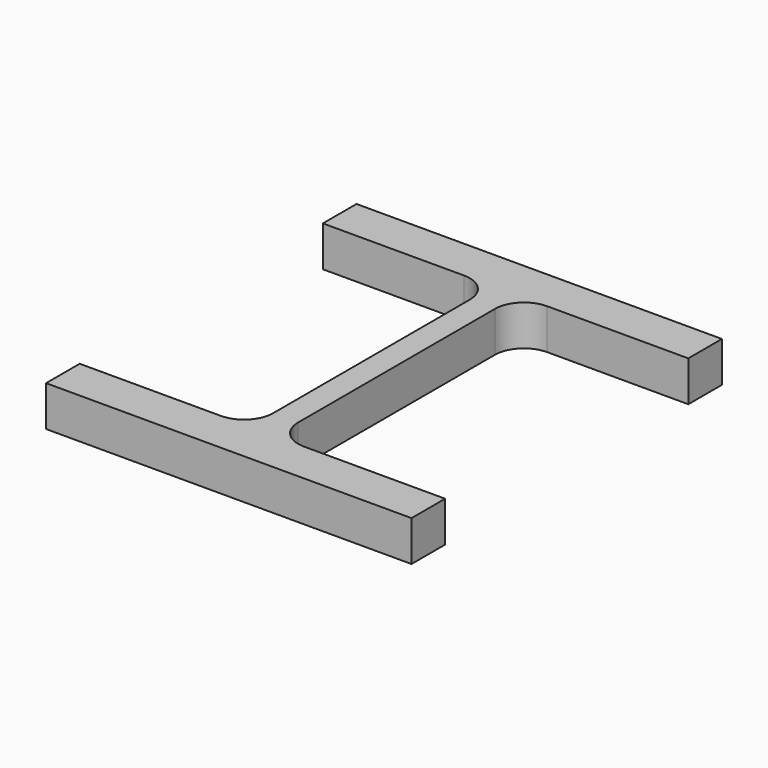
from build123d import *

# Parameters (mm, degrees)
F1_DEPTH = 25


with BuildPart() as f1:
    # F0 (on Top) → F1 (new body)
    with BuildSketch(Plane.XY):
        with BuildLine():
            Line((180.835105, 76.86547), (-45.164895, 76.86547))
            Line((-45.164895, 76.86547), (-45.164895, 50.86547))
            Line((-45.164895, 50.86547), (42.085105, 50.86547))
            ThreePointArc((42.085105, 50.86547), (54.813027, 45.593392), (60.085105, 32.86547))
            Line((60.085105, 32.86547), (60.085105, -54.423444))
            Line((60.085105, -54.423444), (60.085105, -119.13453))
            ThreePointArc((60.085105, -119.13453), (54.813027, -131.862452), (42.085105, -137.13453))
            Line((42.085105, -137.13453), (-45.164895, -137.13453))
            Line((-45.164895, -137.13453), (-45.164895, -163.13453))
            Line((-45.164895, -163.13453), (180.835105, -163.13453))
            Line((180.835105, -163.13453), (180.835105, -137.13453))
            Line((180.835105, -137.13453), (93.585105, -137.13453))
            ThreePointArc((93.585105, -137.13453), (80.857183, -131.862452), (75.585105, -119.13453))
            Line((75.585105, -119.13453), (75.585105, -54.423444))
            Line((75.585105, -54.423444), (75.585105, 32.86547))
            ThreePointArc((75.585105, 32.86547), (80.857183, 45.593392), (93.585105, 50.86547))
            Line((93.585105, 50.86547), (180.835105, 50.86547))
            Line((180.835105, 50.86547), (180.835105, 76.86547))
        make_face()
    extrude(amount=F1_DEPTH)


solid = f1.part
